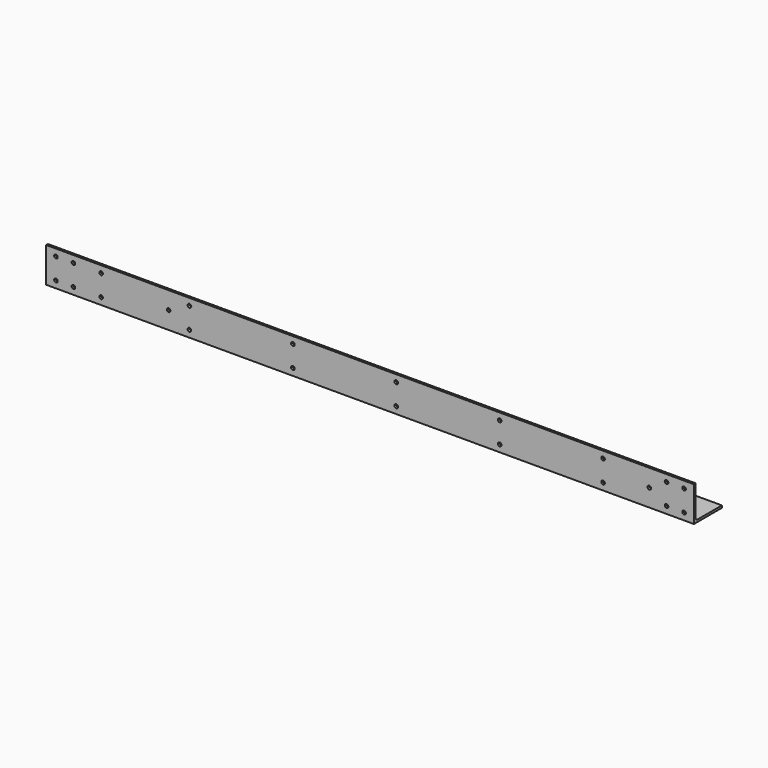
from build123d import *

# Parameters (mm, degrees)
F1_DEPTH = 939.8
F2_R     = 2.6162
F3_DEPTH = 50.801


with BuildPart() as f1:
    # F0 (on Right) → F1 (new body)
    with BuildSketch(Plane.YZ):
        with BuildLine():
            Line((0, -44.45), (0, 0))
            Line((0, 0), (-3.175, 0))
            Line((-3.175, 0), (-3.175, -50.8))
            Line((-3.175, -50.8), (47.625, -50.8))
            Line((47.625, -50.8), (47.625, -47.625))
            Line((47.625, -47.625), (3.175, -47.625))
            ThreePointArc((3.175, -47.625), (0.929936, -46.695064), (0, -44.45))
        make_face()
    extrude(amount=-F1_DEPTH)

    # F2 (on face) → F3 (cut, through all)
    with BuildSketch(Plane.XZ.offset(3.175)):
        with Locations((-14.2875, -40.7416)):
            Circle(F2_R)
        with Locations((-14.2875, -10.0584)):
            Circle(F2_R)
        with Locations((-925.5125, -40.7416)):
            Circle(F2_R)
        with Locations((-925.5125, -10.0584)):
            Circle(F2_R)
        with Locations((-431.8, -10.0584)):
            Circle(F2_R)
        with Locations((-431.8, -40.7416)):
            Circle(F2_R)
        with Locations((-64.77, -25.4)):
            Circle(F2_R)
        with Locations((-762, -25.4)):
            Circle(F2_R)
        with Locations((-900.1125, -10.0584)):
            Circle(F2_R)
        with Locations((-900.1125, -40.7416)):
            Circle(F2_R)
        with Locations((-39.6875, -10.0584)):
            Circle(F2_R)
        with Locations((-39.6875, -40.7416)):
            Circle(F2_R)
        with Locations((-859.9678, -10.0584)):
            Circle(F2_R)
        with Locations((-859.9678, -40.7416)):
            Circle(F2_R)
        with Locations((-731.8, -10.0584)):
            Circle(F2_R)
        with Locations((-731.8, -40.7416)):
            Circle(F2_R)
        with Locations((-581.8, -10.0584)):
            Circle(F2_R)
        with Locations((-581.8, -40.7416)):
            Circle(F2_R)
        with Locations((-281.8, -10.0584)):
            Circle(F2_R)
        with Locations((-281.8, -40.7416)):
            Circle(F2_R)
        with Locations((-131.8, -10.0584)):
            Circle(F2_R)
        with Locations((-131.8, -40.7416)):
            Circle(F2_R)
    extrude(amount=-F3_DEPTH, mode=Mode.SUBTRACT)


solid = f1.part
